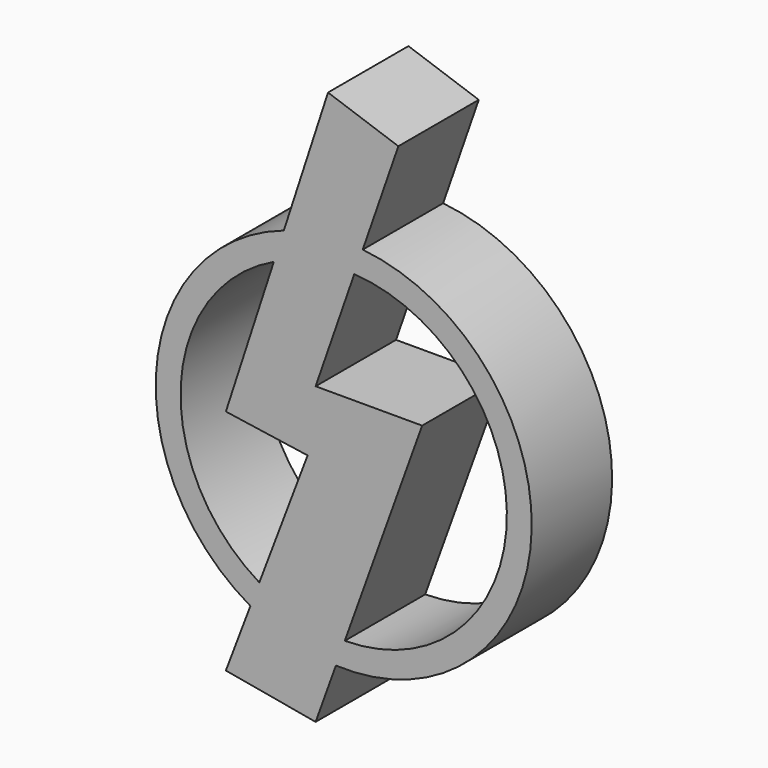
from build123d import *

# Parameters (mm, degrees)
F0_R     = 47.503667
F0_R_2   = 41.228148
F1_DEPTH = 25.4
F3_DEPTH = 25.4


with BuildPart() as f1:
    # F0 (on Front) → F1 (new body)
    with BuildSketch(Plane.XZ):
        Circle(F0_R)
        Circle(F0_R_2, mode=Mode.SUBTRACT)
    extrude(amount=F1_DEPTH)

    # F2 (on Front) → F3 (join)
    with BuildSketch(Plane.XZ):
        Polygon((-7.097661, 12.997016), (13.808518, 73.192399), (-3.96363, 79.364762), (-29.773306, 0), (-9.125565, -3.041855), (-29.773306, -57.610888), (-7.097661, -61.666697), (19.818144, 12.997016), align=None)
    extrude(amount=F3_DEPTH)


solid = f1.part
